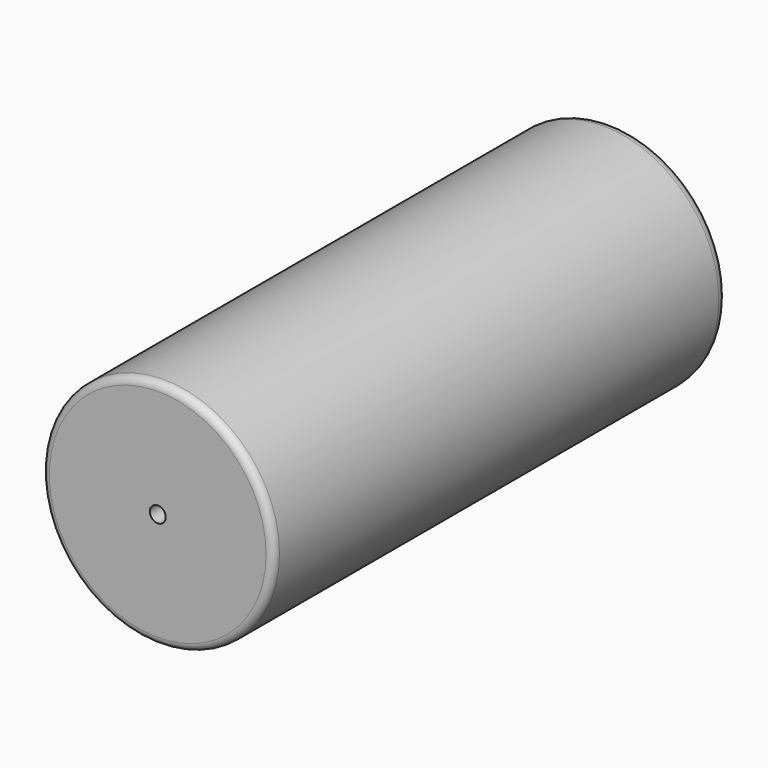
from build123d import *

# Parameters (mm, degrees)
F0_R     = 78.74
F1_DEPTH = 386.08
F3_D     = 10.8
F3_DEPTH = 38.1
F3_TIP   = 3.2446473427
F4_R     = 5.08
F5_R     = 7.62


with BuildPart() as f1:
    # F0 (on Front) → F1 (new body)
    with BuildSketch(Plane.XZ):
        Circle(F0_R)
    extrude(amount=F1_DEPTH)

    # F3
    with Locations(Plane.XZ.offset(386.08)):
        with Locations((0, 0)):
            Hole(F3_D / 2, depth=F3_DEPTH)
            with Locations((0, 0, -(F3_DEPTH + F3_TIP / 2))):  # 118° drill point
                Cone(0, F3_D / 2, F3_TIP, mode=Mode.SUBTRACT)

    # F4
    f4_edges = [f1.edges().sort_by_distance(p)[0] for p in [
        (-78.74, -386.08, 0),
    ]]
    fillet(f4_edges, radius=F4_R)

    # F5
    f5_edges = [f1.edges().sort_by_distance(p)[0] for p in [
        (-78.74, 0, 0),
    ]]
    fillet(f5_edges, radius=F5_R)


solid = f1.part
